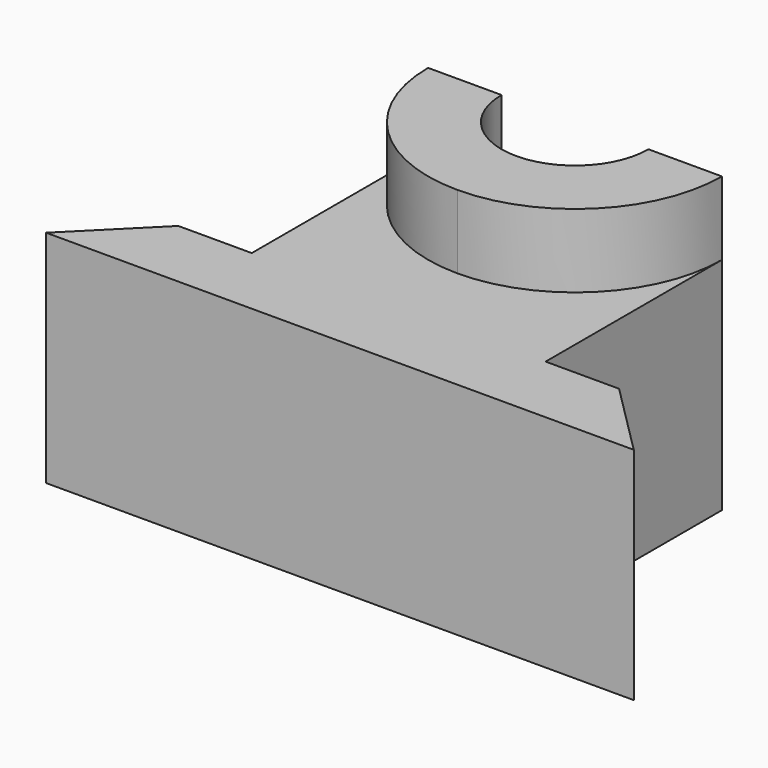
from build123d import *

# Parameters (mm, degrees)
F1_DEPTH = 30
F2_DEPTH = 40


with BuildPart() as f1:
    # F0 (on Top) → F1 (new body)
    with BuildSketch(Plane.XY):
        with BuildLine():
            Line((-40, 0), (0, 0))
            Line((0, 0), (30, 0))
            Line((30, 0), (40, 0))
            Line((40, 0), (30, 10))
            Line((30, 10), (20, 10))
            Line((20, 10), (20, 40))
            ThreePointArc((20, 40), (14.142136, 25.857864), (0, 20))
            ThreePointArc((0, 20), (-14.142136, 25.857864), (-20, 40))
            Line((-20, 40), (-20, 10))
            Line((-20, 10), (-30, 10))
            Line((-30, 10), (-40, 0))
        make_face()
    extrude(amount=F1_DEPTH)

    # F0 (on Top) → F2 (join)
    with BuildSketch(Plane.XY):
        with BuildLine():
            Line((-10, 40), (-20, 40))
            ThreePointArc((-20, 40), (-14.142136, 25.857864), (0, 20))
            ThreePointArc((0, 20), (14.142136, 25.857864), (20, 40))
            Line((20, 40), (10, 40))
            ThreePointArc((10, 40), (7.071068, 32.928932), (0, 30))
            ThreePointArc((0, 30), (-7.071068, 32.928932), (-10, 40))
        make_face()
    extrude(amount=F2_DEPTH)


solid = f1.part
